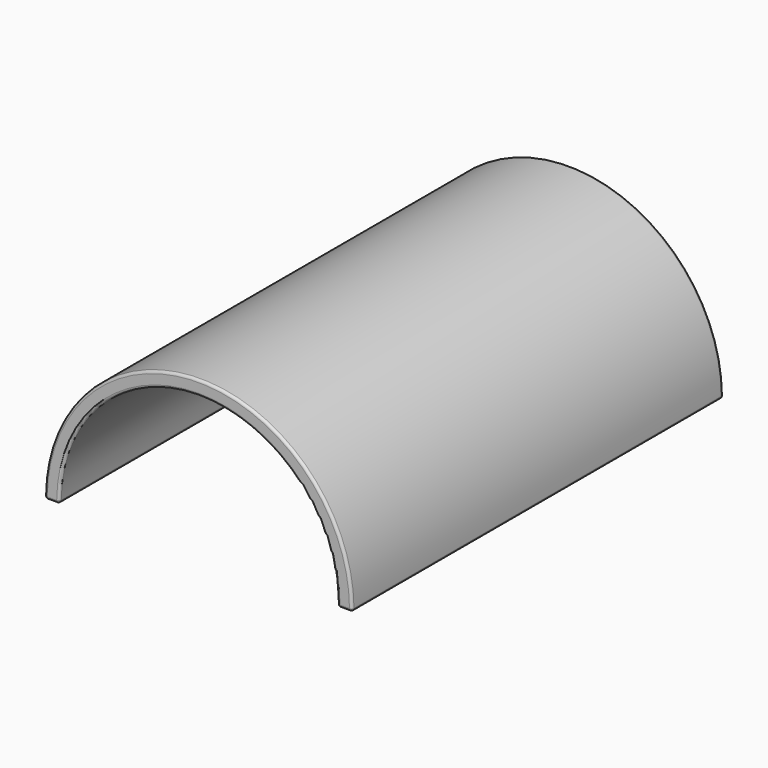
from build123d import *

# Parameters (mm, degrees)
F1_DEPTH = 93.98
F2_R     = 0.508


with BuildPart() as f1:
    # F0 (on Front) → F1 (new body)
    with BuildSketch(Plane.XZ):
        with BuildLine():
            Line((28.192963, 0), (31.113963, 0))
            ThreePointArc((31.113963, 0), (0, 31.369), (-31.113963, 0))
            Line((-31.113963, 0), (-28.192963, 0))
            ThreePointArc((-28.192963, 0), (0, 28.448107), (28.192963, 0))
        make_face()
    extrude(amount=F1_DEPTH)

    # F2
    f2_edges = [f1.edges().sort_by_distance(p)[0] for p in [
        (0, -93.98, 28.448107),
        (0, -93.98, 31.369),
        (31.113963, -46.99, 0),
        (28.192963, -46.99, 0),
        (-28.192963, -46.99, 0),
        (-31.113963, -46.99, 0),
        (-29.653463, -93.98, 0),
        (-29.653463, 0, 0),
        (29.653463, 0, 0),
        (0, 0, 31.369),
        (0, 0, 28.448107),
        (29.653463, -93.98, 0),
    ]]
    fillet(f2_edges, radius=F2_R)


solid = f1.part
